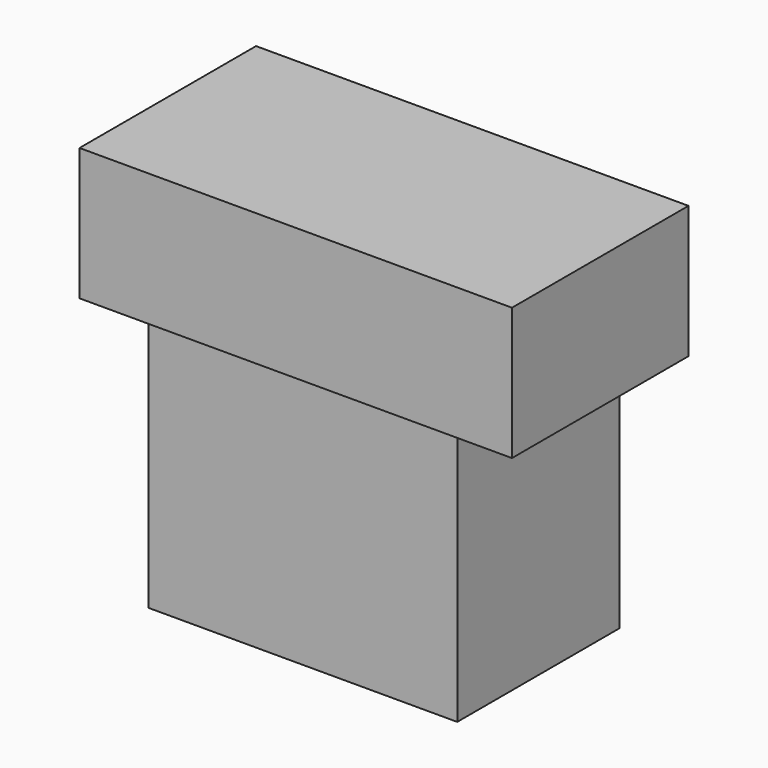
from build123d import *

# Parameters (mm, degrees)
F0_W     = 35
F0_H     = 23
F1_DEPTH = 29
F2_W     = 49
F2_H     = 25
F2_W_2   = 35
F2_H_2   = 23
F3_DEPTH = 15


with BuildPart() as f1:
    # F0 (on Top) → F1 (new body)
    with BuildSketch(Plane.XY):
        with Locations((6.9202957675, 8.4343513213)):
            Rectangle(F0_W, F0_H)
    extrude(amount=F1_DEPTH)

    # F2 (on face) → F3 (join)
    with BuildSketch(Plane.XY.offset(29)):
        with Locations((6.9202957675, 8.4343513213)):
            Rectangle(F2_W, F2_H)
        with Locations((6.9202957675, 8.4343513213)):
            Rectangle(F2_W_2, F2_H_2, mode=Mode.SUBTRACT)
        with Locations((6.9202957675, 8.4343513213)):
            Rectangle(F2_W_2, F2_H_2)
    extrude(amount=F3_DEPTH)


solid = f1.part
